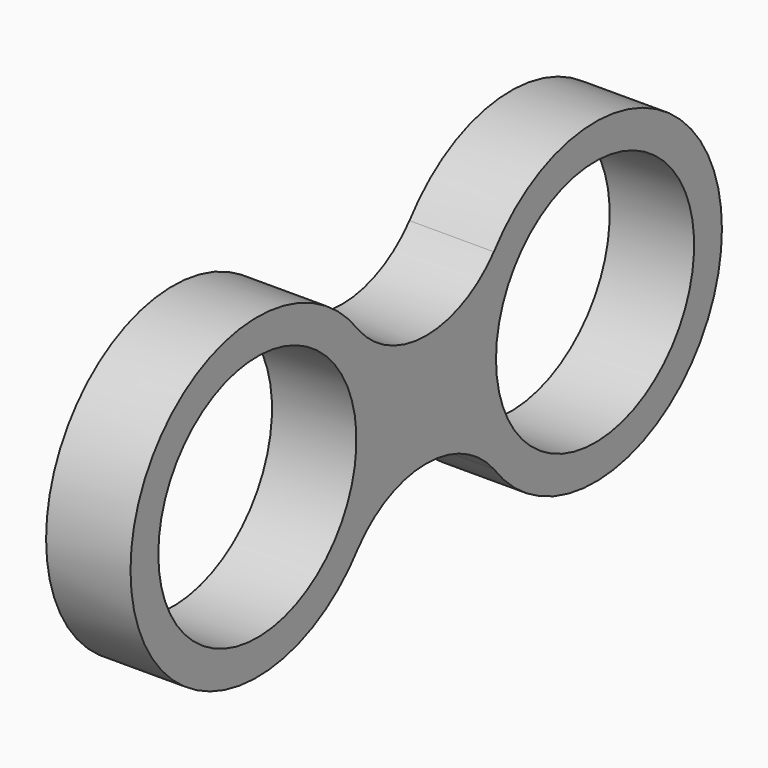
from build123d import *

# Parameters (mm, degrees)
F0_R     = 11.1379
F1_DEPTH = 7.62
F2_D     = 22.352


with BuildPart() as f1:
    # F0 (on Right) → F1 (new body)
    with BuildSketch(Plane.YZ):
        with BuildLine():
            ThreePointArc((7.636034, 8.636), (0, 5.08), (-7.636034, 8.636))
            ThreePointArc((-7.636034, 8.636), (-33.3629, 0), (-7.636034, -8.636))
            ThreePointArc((-7.636034, -8.636), (0, -5.08), (7.636034, -8.636))
            ThreePointArc((7.636034, -8.636), (33.3629, 0), (7.636034, 8.636))
        make_face()
        with Locations((-19.05, 0)):
            Circle(F0_R, mode=Mode.SUBTRACT)
        with Locations((19.05, 0)):
            Circle(F0_R, mode=Mode.SUBTRACT)
    extrude(amount=F1_DEPTH)

    # F2 (through all)
    with Locations(Plane(origin=(0, 0, 0), x_dir=(0, 1, 0), z_dir=(-1, 0, 0))):
        with Locations((19.05, 0), (-19.05, 0)):
            Hole(F2_D / 2)


solid = f1.part
